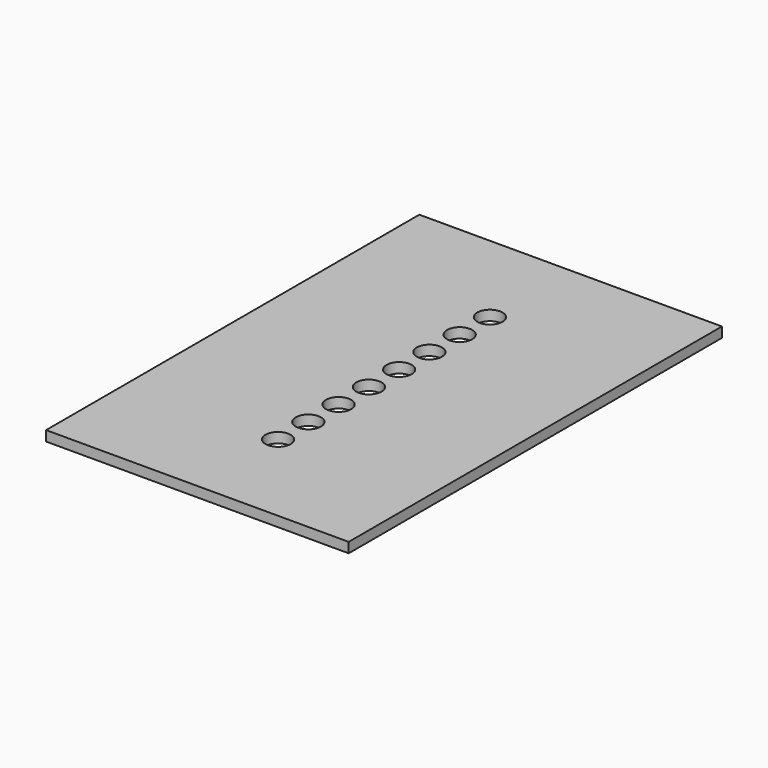
from build123d import *

# Parameters (mm, degrees)
F0_W     = 60
F0_H     = 92.5
F0_R     = 2.5
F1_DEPTH = 2


with BuildPart() as f1:
    # F0 (on Top) → F1 (new body)
    with BuildSketch(Plane.XY):
        with Locations((0, -26.25)):
            Rectangle(F0_W, F0_H)
        with Locations((0, -52.5)):
            Circle(F0_R, mode=Mode.SUBTRACT)
        with Locations((0, -45)):
            Circle(F0_R, mode=Mode.SUBTRACT)
        with Locations((0, -37.5)):
            Circle(F0_R, mode=Mode.SUBTRACT)
        with Locations((0, -30)):
            Circle(F0_R, mode=Mode.SUBTRACT)
        with Locations((0, -22.5)):
            Circle(F0_R, mode=Mode.SUBTRACT)
        with Locations((0, -15)):
            Circle(F0_R, mode=Mode.SUBTRACT)
        with Locations((0, -7.5)):
            Circle(F0_R, mode=Mode.SUBTRACT)
        Circle(F0_R, mode=Mode.SUBTRACT)
    extrude(amount=F1_DEPTH)


solid = f1.part
